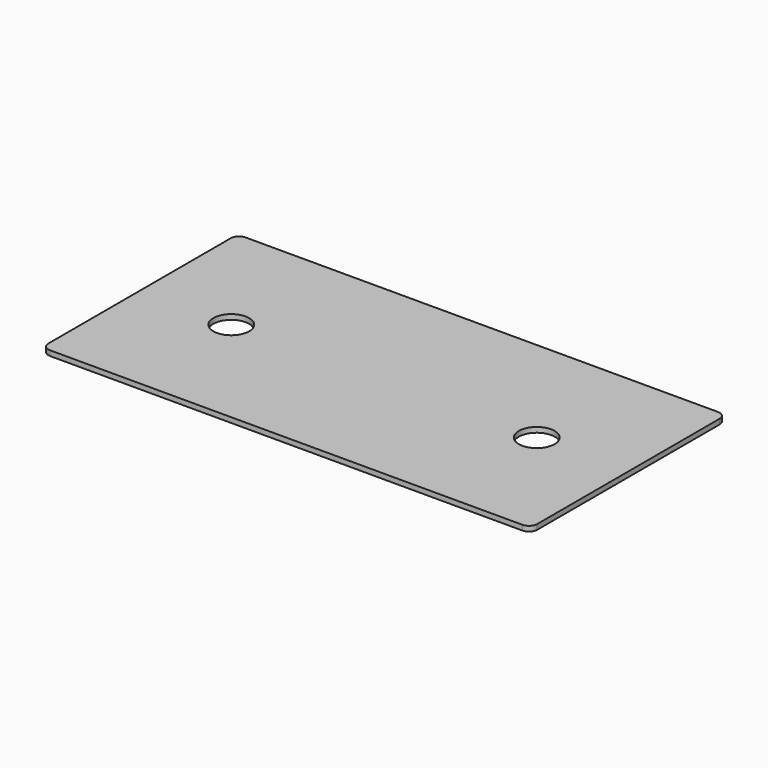
from build123d import *

# Parameters (mm, degrees)
F0_R     = 11.176
F1_DEPTH = 1.5875


with BuildPart() as f1:
    # F0 (on Top) → F1 (new body, symmetric)
    with BuildSketch(Plane.XY):
        with BuildLine():
            ThreePointArc((-147.32, 76.2), (-150.9121024484, 74.7121024484), (-152.4, 71.12))
            Line((-152.4, 71.12), (-152.4, -71.12))
            ThreePointArc((-152.4, -71.12), (-150.9121024484, -74.7121024484), (-147.32, -76.2))
            Line((-147.32, -76.2), (147.32, -76.2))
            ThreePointArc((147.32, -76.2), (150.9121024484, -74.7121024484), (152.4, -71.12))
            Line((152.4, -71.12), (152.4, 71.12))
            ThreePointArc((152.4, 71.12), (150.9121024484, 74.7121024484), (147.32, 76.2))
            Line((147.32, 76.2), (-147.32, 76.2))
        make_face()
        with Locations((-95.25, 0)):
            Circle(F0_R, mode=Mode.SUBTRACT)
        with Locations((95.25, 0)):
            Circle(F0_R, mode=Mode.SUBTRACT)
    extrude(amount=F1_DEPTH, both=True)


solid = f1.part
